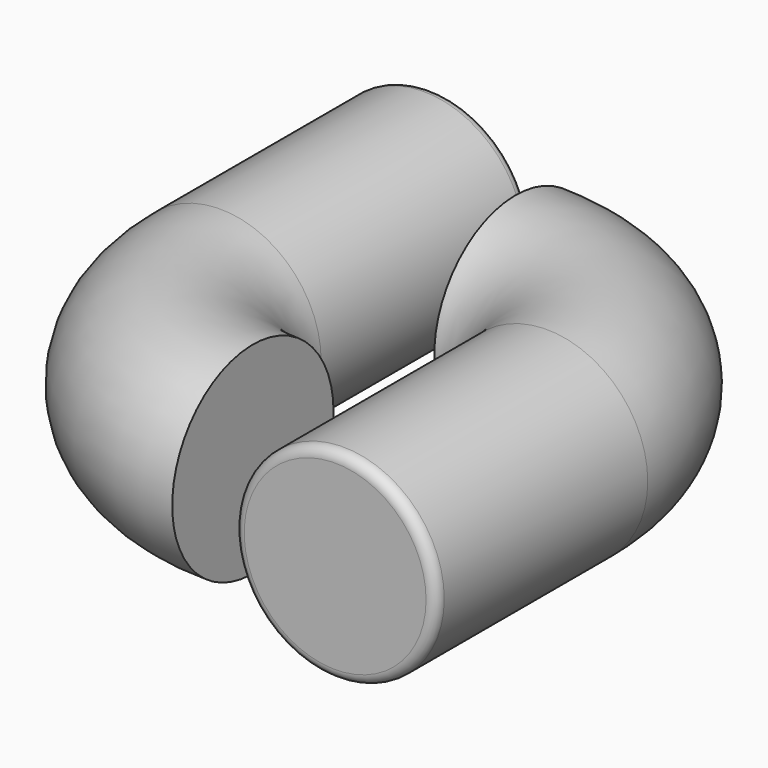
from build123d import *

# Parameters (mm, degrees)
F1_R      = 100
F2_FACE_R = 100
F4_R      = 158.537666862
F4_R_2    = 100
F5_DEPTH  = 261
F6_R      = 10
F7_R      = 99.8425511125
F9_R      = 10


with BuildPart() as f2:
    # F2: sweep along a path in F0
    with BuildLine(Plane.XY) as f2_path:
        ThreePointArc((161.8, 0), (115.3347128974, 113.4775043825), (2.6264029557, 161.7786821788))
    # F1 (on Front) → F2 (sweep)
    with BuildSketch(Plane.XZ):
        with Locations((161.8, 0)):
            Circle(F1_R)
    sweep(path=f2_path.line)

    # F3: sweep along a path in F0
    with BuildLine(Plane.XY) as f3_path:
        Line((161.8, 0), (161.8, -261.8))
    # F2_face (on face) → F3 (sweep)
    with BuildSketch(Plane(origin=(161.8, 0, 0), x_dir=(1, 0, 0), z_dir=(0, -1, 0))):
        Circle(F2_FACE_R)
    sweep(path=f3_path.line)

    # F4 (on face) → F5 (cut)
    with BuildSketch(Plane.XZ.offset(261.8)):
        with Locations((161.8, 0)):
            Circle(F4_R)
        with Locations((161.8, 0)):
            Circle(F4_R_2, mode=Mode.SUBTRACT)
    extrude(amount=-F5_DEPTH, mode=Mode.SUBTRACT)

    # F6
    f6_edges = [f2.edges().sort_by_distance(p)[0] for p in [
        (61.8, 0, 0),
        (61.8, -261.8, 0),
        (261.8, -130.9, 0),
    ]]
    fillet(f6_edges, radius=F6_R)


with BuildPart() as f8:
    # F8: sweep along a path in F0
    with BuildLine(Plane.XY) as f8_path:
        ThreePointArc((0, -161.1341685057), (-113.9390632312, -113.9390632312), (-161.1341685057, 0))
        Line((-161.1341685057, 0), (-161.1341685057, 261.8))
    # F7 (on Right) → F8 (sweep)
    with BuildSketch(Plane.YZ):
        with Locations((-161.3091230392, 0)):
            Circle(F7_R)
    sweep(path=f8_path.line)

    # F9
    f9_edges = [f8.edges().sort_by_distance(p)[0] for p in [
        (-261.151674, 261.8, 0),
    ]]
    fillet(f9_edges, radius=F9_R)


solid = Compound([f2.part, f8.part])
